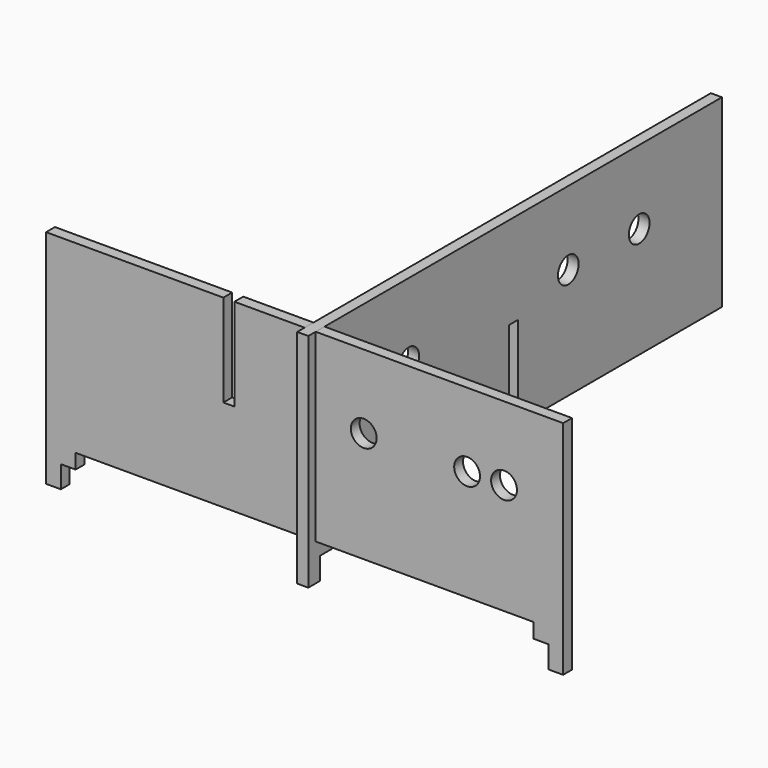
from build123d import *

# Parameters (mm, degrees)
F0_R     = 1.75
F1_DEPTH = 0.75
F2_R     = 1.75
F3_DEPTH = 1.5


with BuildPart() as f1:
    # F0 (on Front) → F1 (new body, symmetric)
    with BuildSketch(Plane.XZ):
        Polygon((-11, 27), (-35, 27), (-35, -3), (-33, -3), (-33, 0), (-31, 0), (-31, 2), (31, 2), (31, 0), (33, 0), (33, -3), (35, -3), (35, 27), (-9.5, 27), (-9.5, 14.5), (-11, 14.5), align=None)
        with Locations((8, 17)):
            Circle(F0_R, mode=Mode.SUBTRACT)
        with Locations((22, 17)):
            Circle(F0_R, mode=Mode.SUBTRACT)
        with Locations((27, 17)):
            Circle(F0_R, mode=Mode.SUBTRACT)
    extrude(amount=F1_DEPTH, both=True)


with BuildPart() as f3:
    # F2 (on Right) → F3 (new body)
    with BuildSketch(Plane.YZ):
        Polygon((68, 27), (0.75, 27), (-2, 27), (-2, -3), (0, -3), (0, 0), (2, 0), (2, 2), (32, 2), (32, 14.5), (33.499998, 14.5), (33.499998, 2.002295), (68, 2.002295), align=None)
        with Locations((15, 17)):
            Circle(F2_R, mode=Mode.SUBTRACT)
        with Locations((42, 17)):
            Circle(F2_R, mode=Mode.SUBTRACT)
        with Locations((54, 17)):
            Circle(F2_R, mode=Mode.SUBTRACT)
    extrude(amount=F3_DEPTH)


solid = Compound([f1.part, f3.part])
